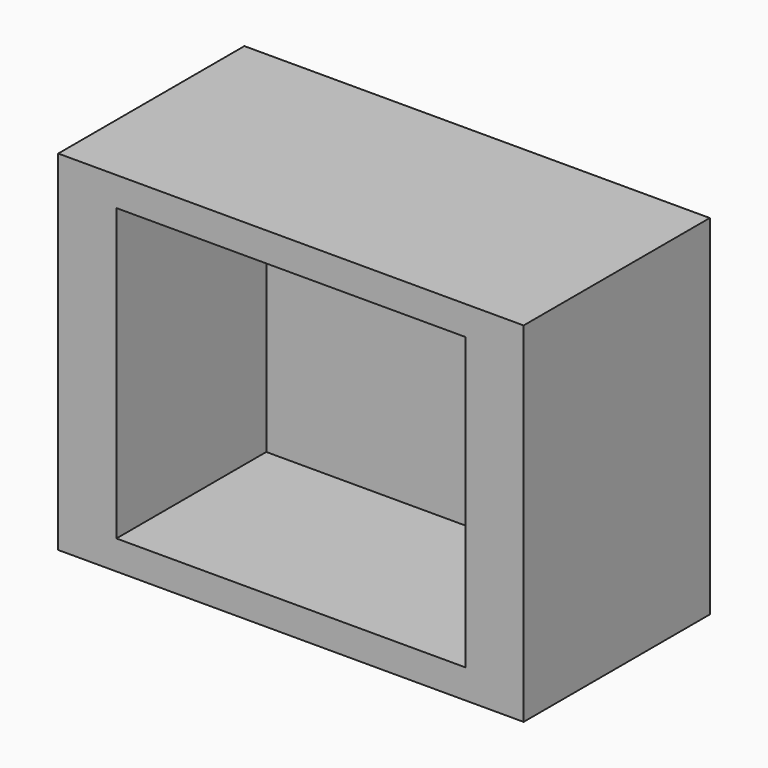
from build123d import *

# Parameters (mm, degrees)
F0_W     = 101.6
F0_H     = 76.2
F0_W_2   = 76.2
F0_H_2   = 63.5
F1_DEPTH = 50.8
F2_W     = 76.2
F2_H     = 63.5
F3_DEPTH = 9.906


with BuildPart() as f1:
    # F0 (on Front) → F1 (new body)
    with BuildSketch(Plane.XZ):
        Rectangle(F0_W, F0_H)
        Rectangle(F0_W_2, F0_H_2, mode=Mode.SUBTRACT)
    extrude(amount=-F1_DEPTH)

    # F2 (on face) → F3 (join)
    with BuildSketch(Plane(origin=(0, 50.8, 0), x_dir=(-1, 0, 0), z_dir=(0, 1, 0))):
        Rectangle(F2_W, F2_H)
    extrude(amount=-F3_DEPTH)


solid = f1.part
